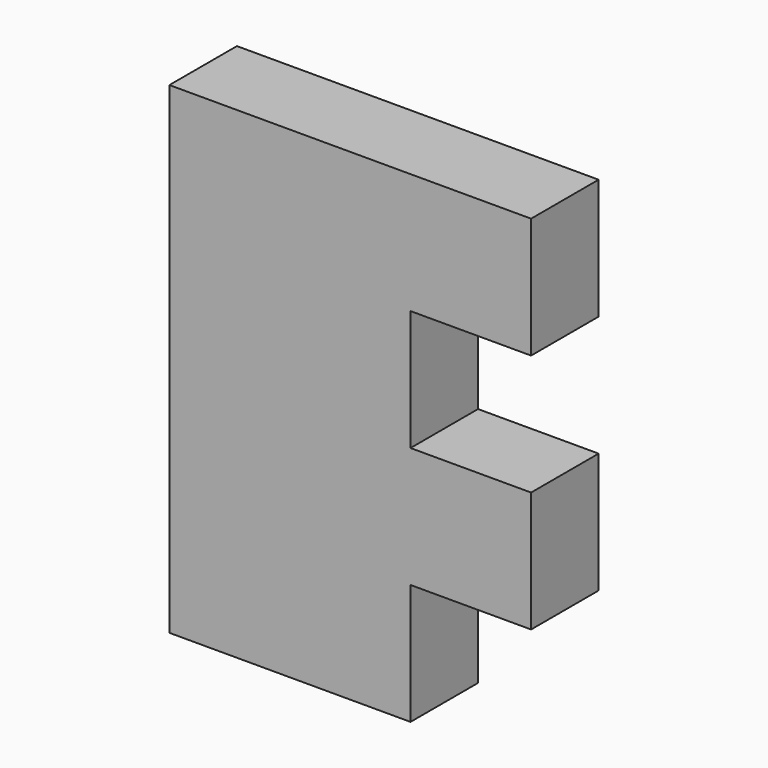
from build123d import *

# Parameters (mm, degrees)
F0_W     = 20
F0_H     = 7
F1_DEPTH = 40
F2_W     = 7
F2_H     = 10
F3_DEPTH = 10


with BuildPart() as f1:
    # F0 (on Top) → F1 (new body)
    with BuildSketch(Plane.XY):
        with Locations((-20, -13.28286)):
            Rectangle(F0_W, F0_H)
    extrude(amount=F1_DEPTH)

    # F2 (on face) → F3 (join)
    with BuildSketch(Plane.YZ.offset(-10)):
        with Locations((-13.28286, 35)):
            Rectangle(F2_W, F2_H)
        with Locations((-13.28286, 15)):
            Rectangle(F2_W, F2_H)
    extrude(amount=F3_DEPTH)


solid = f1.part
